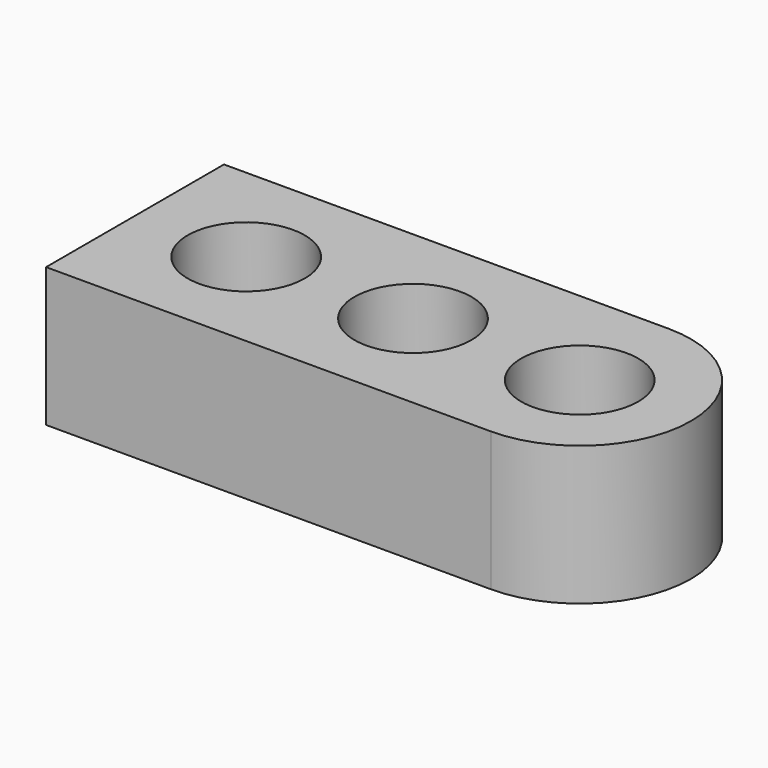
from build123d import *

# Parameters (mm, degrees)
F0_W     = 80
F0_H     = 40
F1_DEPTH = 25
F2_R     = 10.527281
F3_DEPTH = 25


with BuildPart() as f1:
    # F0 (on Top) → F1 (new body)
    with BuildSketch(Plane.XY):
        with Locations((-10, 0)):
            Rectangle(F0_W, F0_H)
        with BuildLine():
            ThreePointArc((30, -20), (50, 0), (30, 20))
            Line((30, 20), (30, -20))
        make_face()
    extrude(amount=F1_DEPTH)

    # F2 (on face) → F3 (cut, through all)
    with BuildSketch(Plane(origin=(0, 0, 0), x_dir=(1, 0, 0), z_dir=(0, 0, -1))):
        with Locations((30, 0)):
            Circle(F2_R)
        Circle(F2_R)
        with Locations((-30, 0)):
            Circle(F2_R)
    extrude(amount=-F3_DEPTH, mode=Mode.SUBTRACT)


solid = f1.part
